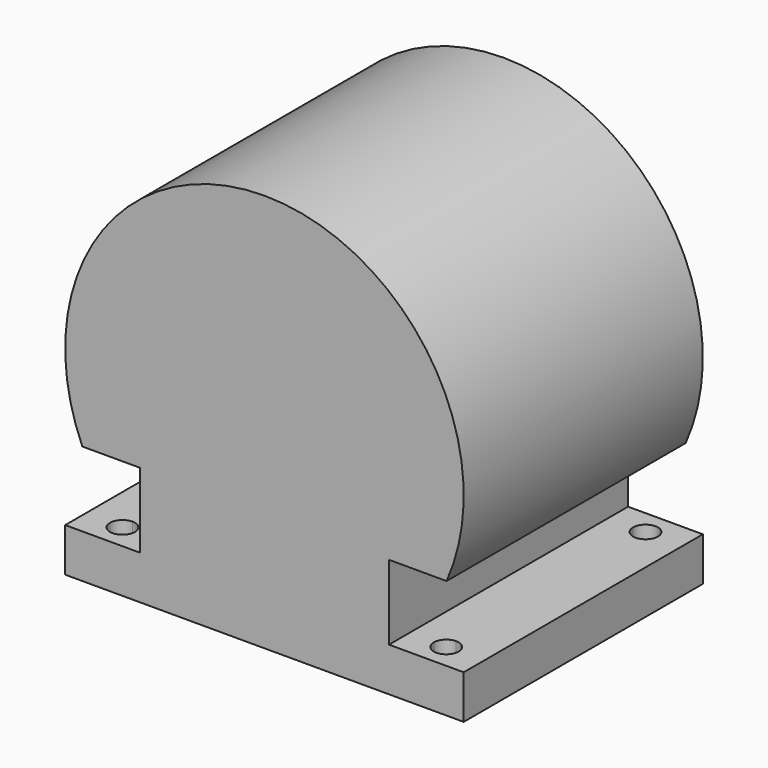
from build123d import *

# Parameters (mm, degrees)
F0_W     = 15
F0_H     = 17.55002
F0_R     = 15
F2_DEPTH = 60
F3_DEPTH = 25
F4_DEPTH = 60


with BuildPart() as f2:
    # F0 (on Front) → F2 (new body, symmetric)
    with BuildSketch(Plane.XZ):
        with Locations((-72.5, 8.77501)):
            Rectangle(F0_W, F0_H)
        with BuildLine():
            Line((-65, 0), (0, 0))
            ThreePointArc((0, 0), (-26.495298, 4.514907), (-50, 17.55002))
            Line((-50, 17.55002), (-65, 17.55002))
            Line((-65, 17.55002), (-65, 0))
        make_face()
        with BuildLine():
            ThreePointArc((-50, 17.55002), (-26.495298, 4.514907), (0, 0))
            ThreePointArc((0, 0), (26.495298, 4.514907), (50, 17.55002))
            Line((50, 17.55002), (50, 47.55002))
            Line((50, 47.55002), (73.123176, 47.55002))
            ThreePointArc((73.123176, 47.55002), (0, 160), (-73.123176, 47.55002))
            Line((-73.123176, 47.55002), (-50, 47.55002))
            Line((-50, 47.55002), (-50, 17.55002))
        make_face()
        with Locations((0, 80)):
            Circle(F0_R, mode=Mode.SUBTRACT)
        with BuildLine():
            ThreePointArc((50, 17.55002), (26.495298, 4.514907), (0, 0))
            Line((0, 0), (65, 0))
            Line((65, 0), (65, 17.55002))
            Line((65, 17.55002), (50, 17.55002))
        make_face()
        with Locations((72.5, 8.77501)):
            Rectangle(F0_W, F0_H)
    extrude(amount=F2_DEPTH, both=True)

    # F1 (on Top) → F3 (cut)
    with BuildSketch(Plane.XY):
        with BuildLine():
            ThreePointArc((-60, 50), (-68.535534, 53.535534), (-65, 45))
            Line((-65, 45), (-65, 50))
            Line((-65, 50), (-60, 50))
        make_face()
        with BuildLine():
            Line((-65, 50), (-65, 45))
            ThreePointArc((-65, 45), (-61.464466, 46.464466), (-60, 50))
            Line((-60, 50), (-65, 50))
        make_face()
        with BuildLine():
            Line((-65, -45), (-65, -50))
            Line((-65, -50), (-60, -50))
            ThreePointArc((-60, -50), (-61.464466, -46.464466), (-65, -45))
        make_face()
        with BuildLine():
            Line((-60, -50), (-65, -50))
            Line((-65, -50), (-65, -45))
            ThreePointArc((-65, -45), (-68.535534, -53.535534), (-60, -50))
        make_face()
        with BuildLine():
            ThreePointArc((60, 50), (61.464466, 46.464466), (65, 45))
            Line((65, 45), (65, 50))
            Line((65, 50), (60, 50))
        make_face()
        with BuildLine():
            Line((65, 50), (65, 45))
            ThreePointArc((65, 45), (68.535534, 46.464466), (70, 50))
            ThreePointArc((70, 50), (65, 55), (60, 50))
            Line((60, 50), (65, 50))
        make_face()
        with BuildLine():
            Line((65, -50), (60, -50))
            ThreePointArc((60, -50), (65, -55), (70, -50))
            ThreePointArc((70, -50), (68.535534, -46.464466), (65, -45))
            Line((65, -45), (65, -50))
        make_face()
        with BuildLine():
            ThreePointArc((65, -45), (61.464466, -46.464466), (60, -50))
            Line((60, -50), (65, -50))
            Line((65, -50), (65, -45))
        make_face()
    extrude(amount=F3_DEPTH, mode=Mode.SUBTRACT)

    # F0 (on Front) → F4 (join, through all)
    with BuildSketch(Plane.XZ):
        with Locations((0, 80)):
            Circle(F0_R)
    extrude(amount=F4_DEPTH)


solid = f2.part
